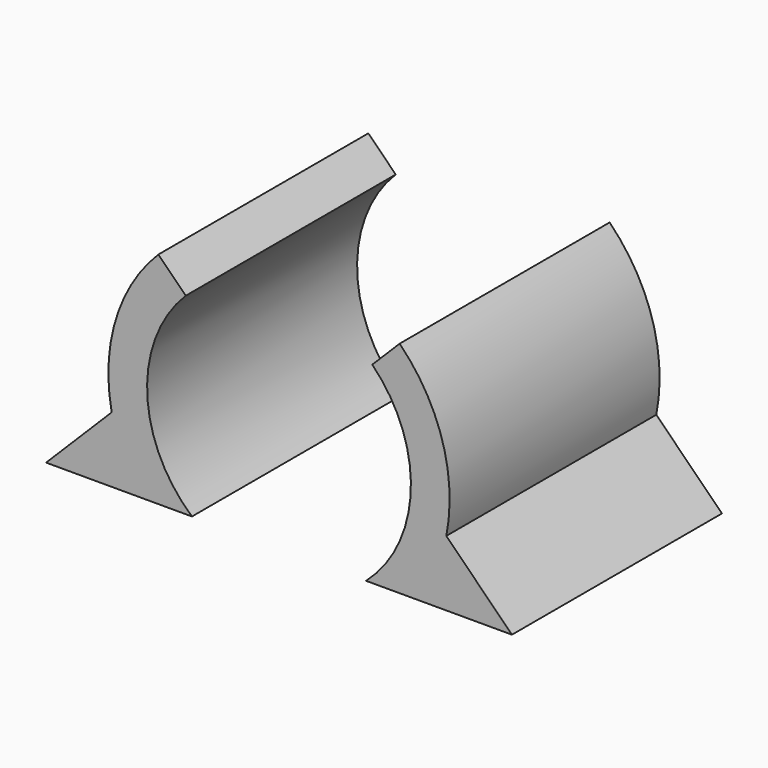
from build123d import *

# Parameters (mm, degrees)
PAD013_DEPTH = 20
PAD008_DEPTH = 20


with BuildPart() as motorholder_pocket:
    # Sketch017 → Pad013 (new body)
    with BuildSketch(Plane.XZ.offset(5)):
        Polygon((0, 0), (-12, 12), (12, 12), align=None)
    extrude(amount=PAD013_DEPTH)


with BuildPart() as motor_holder_cut:
    # Sketch010 → Pad008 (new body)
    with BuildSketch(Plane.XZ.offset(5)):
        with BuildLine():
            ThreePointArc((-6.63325, 7.55), (-10.05, 0), (-6.63325, -7.55))
            Line((-6.63325, -7.55), (-17.747451, -7.55))
            Line((-17.747451, -7.55), (-12.747451, -2.55))
            ThreePointArc((-6.63325, 11.18034), (-11.87575, 5.288341), (-12.747451, -2.55))
            Line((-2.63325, 11.18034), (-6.63325, 11.18034))
            Line((-2.63325, 7.55), (-2.63325, 11.18034))
            Line((-6.63325, 7.55), (-2.63325, 7.55))
        make_face()
        with BuildLine():
            ThreePointArc((6.63325, -7.55), (10.05, 0), (6.63325, 7.55))
            Line((6.63325, 7.55), (2.63325, 7.55))
            Line((2.63325, 7.55), (2.63325, 11.18034))
            Line((2.63325, 11.18034), (6.63325, 11.18034))
            ThreePointArc((12.747451, -2.55), (11.87575, 5.288341), (6.63325, 11.18034))
            Line((12.747451, -2.55), (17.747451, -7.55))
            Line((6.63325, -7.55), (17.747451, -7.55))
        make_face()
    extrude(amount=PAD008_DEPTH)

    # Cut004: cut motorholder_pocket
    add(motorholder_pocket.part, mode=Mode.SUBTRACT)


solid = motor_holder_cut.part
